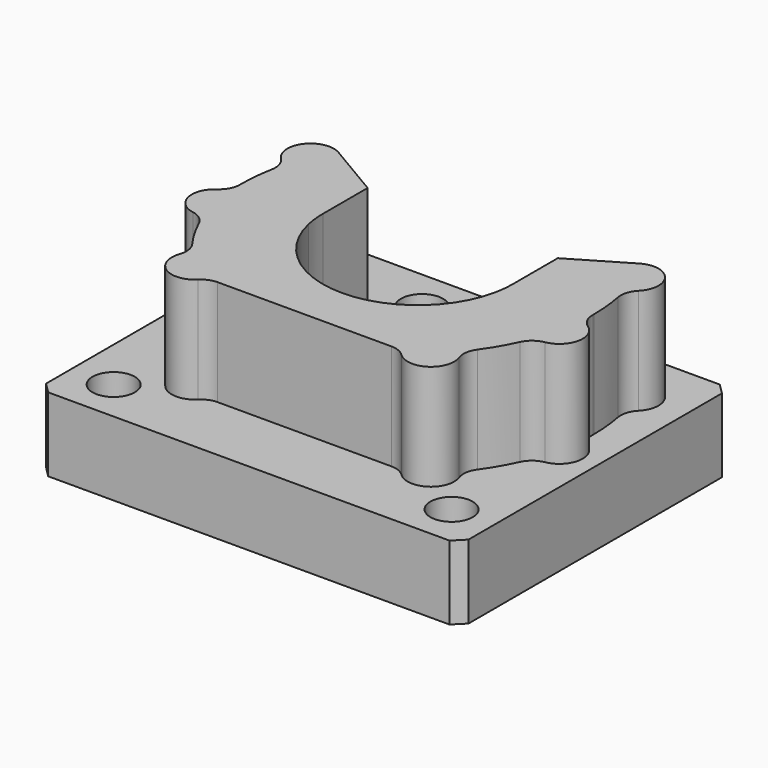
from build123d import *

# Parameters (mm, degrees)
F0_W     = 200
F0_H     = 160
F1_DEPTH = 35
F3_DEPTH = 50
F4_SIZE  = 5
F5_R     = 10
F6_DEPTH = 15
F7_R     = 6.5
F8_DEPTH = 20


with BuildPart() as f1:
    # F0 (on Top) → F1 (new body)
    with BuildSketch(Plane.XY):
        Rectangle(F0_W, F0_H)
    extrude(amount=F1_DEPTH)

    # F2 (on face) → F3 (join)
    with BuildSketch(Plane.XY.offset(35)):
        with BuildLine():
            Line((-45, 20), (-83.5, 20))
            ThreePointArc((-83.5, 20), (-83.499199, 19.634294), (-83.496797, 19.268595))
            ThreePointArc((-83.496797, 19.268595), (-84.615489, 14.584353), (-87.793986, 10.966239))
            ThreePointArc((-87.793986, 10.966239), (-92.260652, -0.450479), (-83.388126, -8.910435))
            ThreePointArc((-83.388126, -8.910435), (-78.978477, -10.846561), (-75.985202, -14.619346))
            ThreePointArc((-75.985202, -14.619346), (-72.131939, -22.062255), (-67.551957, -29.081393))
            ThreePointArc((-67.551957, -29.081393), (-65.742607, -33.544559), (-66.229285, -38.335879))
            ThreePointArc((-66.229285, -38.335879), (-61.795593, -51.32092), (-48.150249, -49.880952))
            ThreePointArc((-48.150249, -49.880952), (-44.922849, -47.748231), (-41.127489, -47))
            Line((-41.127489, -47), (41.127489, -47))
            ThreePointArc((41.127489, -47), (44.922849, -47.748231), (48.150249, -49.880952))
            ThreePointArc((48.150249, -49.880952), (61.795593, -51.32092), (66.229285, -38.335879))
            ThreePointArc((66.229285, -38.335879), (65.742607, -33.544559), (67.551957, -29.081393))
            ThreePointArc((67.551957, -29.081393), (72.131939, -22.062255), (75.985202, -14.619346))
            ThreePointArc((75.985202, -14.619346), (78.978477, -10.846561), (83.388126, -8.910435))
            ThreePointArc((83.388126, -8.910435), (92.260652, -0.450479), (87.793986, 10.966239))
            ThreePointArc((87.793986, 10.966239), (84.615489, 14.584353), (83.496797, 19.268595))
            ThreePointArc((83.496797, 19.268595), (83.499199, 19.634294), (83.5, 20))
            Line((83.5, 20), (45, 20))
            ThreePointArc((45, 20), (44.732617, 15.101734), (43.933644, 10.261677))
            ThreePointArc((43.933644, 10.261677), (38.8735, -2.668281), (30.112429, -13.44012))
            ThreePointArc((30.112429, -13.44012), (0, -25), (-30.112429, -13.44012))
            ThreePointArc((-30.112429, -13.44012), (-38.8735, -2.668281), (-43.933644, 10.261677))
            ThreePointArc((-43.933644, 10.261677), (-44.732617, 15.101734), (-45, 20))
        make_face()
        with BuildLine():
            ThreePointArc((-84.67549, 44.888838), (-82.209915, 40.751866), (-81.963998, 35.942175))
            ThreePointArc((-81.963998, 35.942175), (-83.115113, 28.008), (-83.5, 20))
            Line((-83.5, 20), (-45, 20))
            Line((-45, 20), (-45, 39.104097))
            Line((-45, 39.104097), (-45, 46.58))
            Line((-45, 46.58), (-71.264379, 62.100147))
            ThreePointArc((-71.264379, 62.100147), (-85.537354, 59.391052), (-84.67549, 44.888838))
        make_face()
        with BuildLine():
            Line((45, 39.104097), (45, 20))
            Line((45, 20), (83.5, 20))
            ThreePointArc((83.5, 20), (83.115113, 28.008), (81.963998, 35.942175))
            ThreePointArc((81.963998, 35.942175), (82.209915, 40.751866), (84.67549, 44.888838))
            ThreePointArc((84.67549, 44.888838), (85.537354, 59.391052), (71.264379, 62.100147))
            Line((71.264379, 62.100147), (45, 46.58))
            Line((45, 46.58), (45, 39.104097))
        make_face()
        with BuildLine():
            Line((67.673667, 46.58), (62.609608, 46.58))
            Line((62.609608, 46.58), (66.735146, 48.331437))
            ThreePointArc((66.735146, 48.331437), (67.164778, 47.434483), (67.673667, 46.58))
        make_face(mode=Mode.SUBTRACT)
        with BuildLine():
            Line((66.735146, 48.331437), (62.609608, 46.58))
            Line((62.609608, 46.58), (67.673667, 46.58))
            ThreePointArc((67.673667, 46.58), (67.164778, 47.434483), (66.735146, 48.331437))
        make_face()
    extrude(amount=F3_DEPTH)

    # F4
    f4_edges = [f1.edges().sort_by_distance(p)[0] for p in [
        (100, -80, 17.5),
        (100, 80, 17.5),
        (-100, 80, 17.5),
        (-100, -80, 17.5),
    ]]
    chamfer(f4_edges, length=F4_SIZE)

    # F5 (on face) → F6 (cut)
    with BuildSketch(Plane.XY.offset(35)):
        with Locations((-80, -60)):
            Circle(F5_R)
        with Locations((80, -60)):
            Circle(F5_R)
        with Locations((-30, 60)):
            Circle(F5_R)
        with Locations((30, 60)):
            Circle(F5_R)
    extrude(amount=-F6_DEPTH, mode=Mode.SUBTRACT)

    # F7 (on face) → F8 (cut)
    with BuildSketch(Plane.XY.offset(20)):
        with Locations((-30, 60)):
            Circle(F7_R)
        with Locations((30, 60)):
            Circle(F7_R)
        with Locations((-80, -60)):
            Circle(F7_R)
        with Locations((80, -60)):
            Circle(F7_R)
    extrude(amount=-F8_DEPTH, mode=Mode.SUBTRACT)


solid = f1.part
